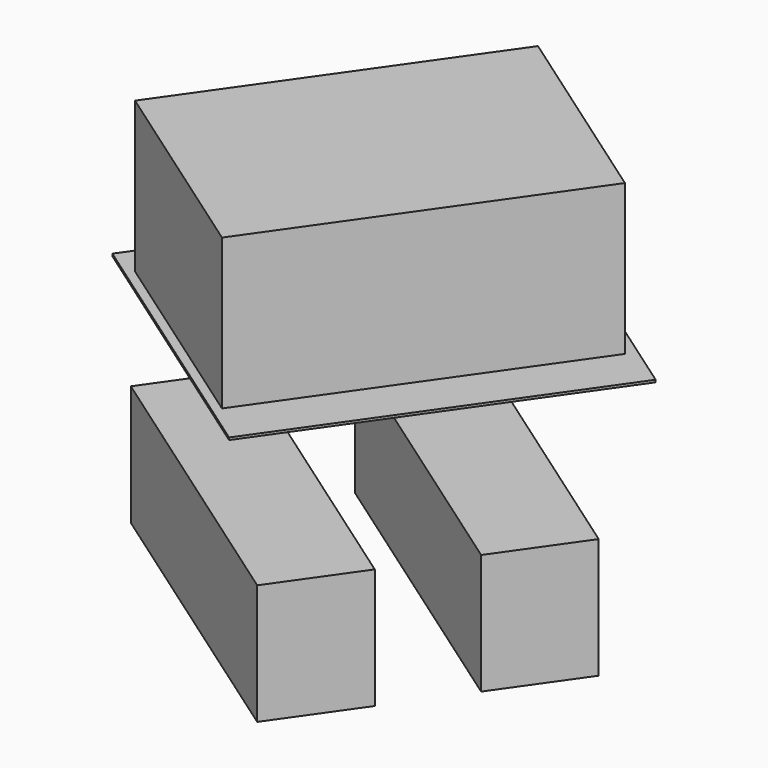
from build123d import *

# Parameters (mm, degrees)
BOX019_W                  = 385
BOX019_H                  = 105
BOX019_DEPTH              = 132
BOX017_W                  = 385
BOX017_H                  = 105
BOX017_DEPTH              = 132
BOX031_W                  = 381
BOX031_H                  = 355.6
BOX031_DEPTH              = 2.54
BOX018_W                  = 359.918
BOX018_H                  = 264.922
BOX018_DEPTH              = 165.1
FUSION005_PLACEMENT_ANGLE = 55


with BuildPart() as obj1:
    # Box019 → Box019 (new body)
    with BuildSketch(Plane(origin=(600, -100, 0), x_dir=(0, -1, 0), z_dir=(0, 0, 1))):
        with Locations((192.5, 52.5)):
            Rectangle(BOX019_W, BOX019_H)
    extrude(amount=BOX019_DEPTH)


with BuildPart() as obj2:
    # Box017 → Box017 (new body)
    with BuildSketch(Plane(origin=(400, -100, 0), x_dir=(0, -1, 0), z_dir=(0, 0, 1))):
        with Locations((192.5, 52.5)):
            Rectangle(BOX017_W, BOX017_H)
    extrude(amount=BOX017_DEPTH)


with BuildPart() as shelf:
    # Box031 → Box031 (new body)
    with BuildSketch(Plane(origin=(360.68, -533.4, 302.26), x_dir=(1, 0, 0), z_dir=(0, 0, 1))):
        with Locations((190.5, 177.8)):
            Rectangle(BOX031_W, BOX031_H)
    extrude(amount=BOX031_DEPTH)


with BuildPart() as powersupplies:
    # Box018 → Box018 (new body)
    with BuildSketch(Plane(origin=(370, -480, 304.8), x_dir=(1, 0, 0), z_dir=(0, 0, 1))):
        with Locations((179.959, 132.461)):
            Rectangle(BOX018_W, BOX018_H)
    extrude(amount=BOX018_DEPTH)

    # Fusion005: union obj1, obj2, Shelf
    add(obj1.part)
    add(obj2.part)
    add(shelf.part)


with BuildPart() as powersupplies_1:
    # Fusion005 placement: moved
    add(powersupplies.part.moved(Location((0, -584.2, 0))).rotate(Axis((0, -584.2, 0), (0, 0, 1)), FUSION005_PLACEMENT_ANGLE))


solid = powersupplies_1.part
